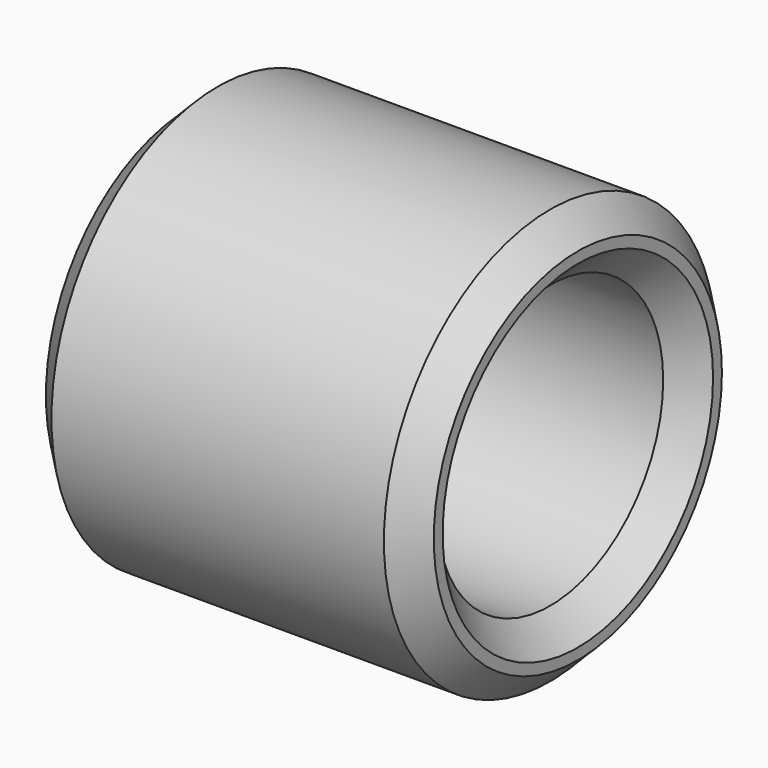
from build123d import *

# Parameters (mm, degrees)
F0_R     = 4.7625
F0_R_2   = 3.2385
F1_DEPTH = 8.89
F2_SIZE  = 0.635


with BuildPart() as f1:
    # F0 (on Right) → F1 (new body)
    with BuildSketch(Plane.YZ):
        Circle(F0_R)
        Circle(F0_R_2, mode=Mode.SUBTRACT)
    extrude(amount=F1_DEPTH)

    # F2
    f2_edges = [f1.edges().sort_by_distance(p)[0] for p in [
        (8.89, -3.2385, 0),
        (8.89, -4.7625, 0),
        (0, -3.2385, 0),
        (0, -4.7625, 0),
    ]]
    chamfer(f2_edges, length=F2_SIZE)


solid = f1.part
